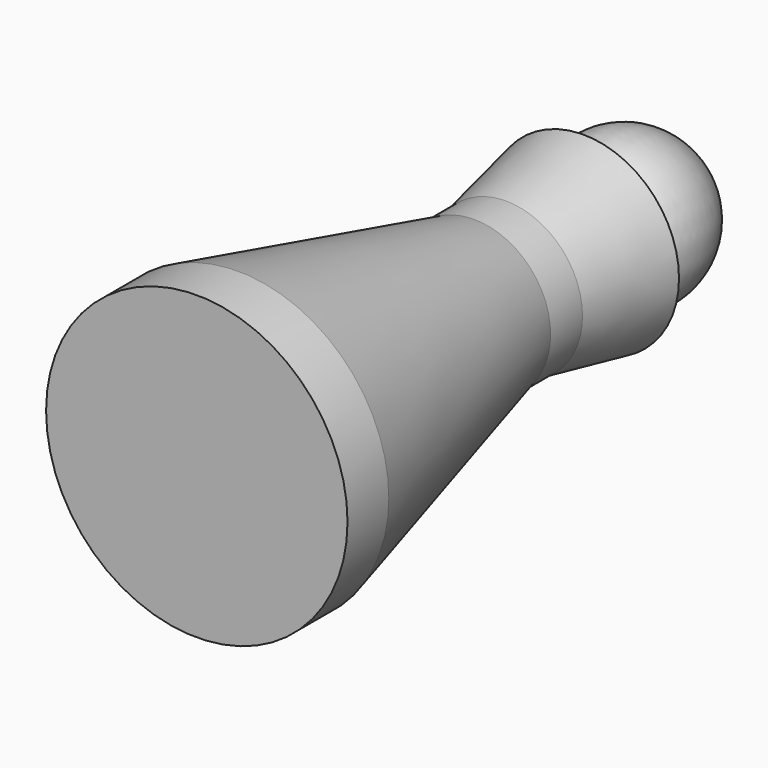
from build123d import *


with BuildPart() as f1:
    # F0 (on Top) → F1 (revolve)
    with BuildSketch(Plane.XY):
        with BuildLine():
            Line((0, -45.243196), (0, -55.812307))
            Line((0, -55.812307), (30.872922, -55.812307))
            Line((30.872922, -55.812307), (30.872922, -45.243196))
            Line((30.872922, -45.243196), (15.668239, 15.204681))
            Line((15.668239, 15.204681), (15.668239, 23.363292))
            Line((15.668239, 23.363292), (19.56212, 43.203548))
            Line((19.56212, 43.203548), (11.739265, 43.203548))
            ThreePointArc((11.739265, 43.203548), (14.289347, 60.025074), (0, 69.259859))
            Line((0, 69.259859), (0, -45.243196))
        make_face()
    revolve(axis=Axis((0, 6.675225, 0), (0, -1, 0)))


solid = f1.part
